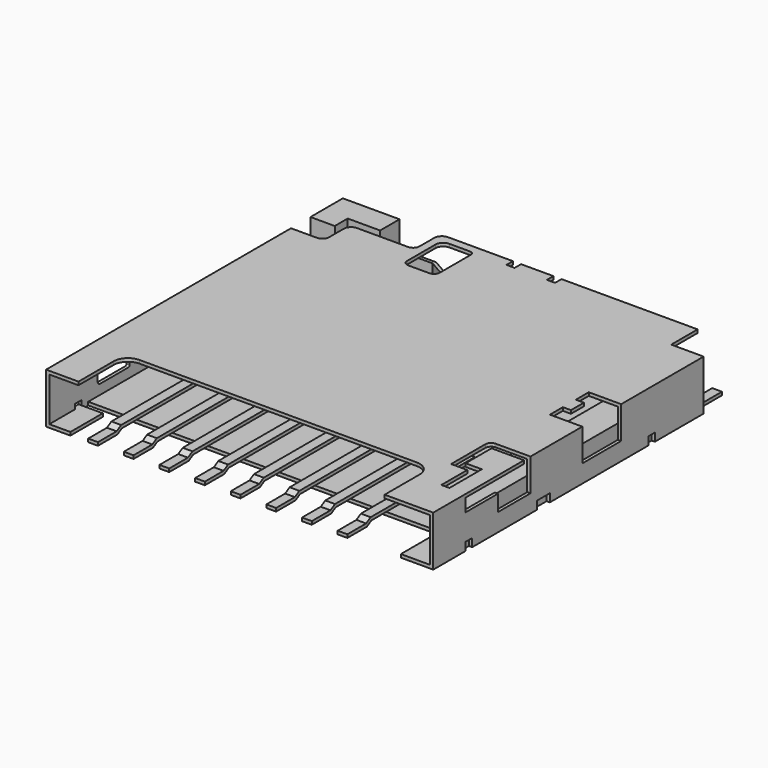
from build123d import *

# Parameters (mm, degrees)
PAD001_DEPTH  = 0.1
PAD002_DEPTH  = 0.1
PAD012_DEPTH  = 0.1
PAD004_DEPTH  = 0.15
ARRAY_X_COUNT = 8
ARRAY_X_PITCH = 1.1
SKETCH005_W   = 1
SKETCH005_H   = 9.2
PAD005_DEPTH  = 1
SKETCH006_W   = 1
SKETCH006_H   = 1.25
SKETCH006_W_2 = 0.75
PAD006_DEPTH  = 0.1
PAD007_DEPTH  = 0.15
PAD008_DEPTH  = 0.15
SKETCH009_W   = 1
SKETCH009_H   = 1
PAD009_DEPTH  = 1.55
SKETCH010_W   = 1.75
SKETCH010_H   = 1.25
PAD010_DEPTH  = 0.1
PAD011_DEPTH  = 0.15
PAD_DEPTH     = 0.1


with BuildPart() as leftside:
    # Sketch001 → Pad001 (new body)
    with BuildSketch(Plane.YZ):
        Polygon((9.45, 1.55), (9.45, 0.775), (8.7, 0.775), (8.7, 0), (7.7, 0), (7.7, 0.25), (7.45, 0.25), (7.45, 0), (4.6, 0), (4.6, 0.25), (4.1, 0.25), (4.1, 0), (1.25, 0), (1.25, 0.25), (1, 0.25), (1, 0), (0, 0), (0, 1.55), align=None)
        with BuildLine():
            Line((1.956208, 0.401603), (3.055083, 0.401603))
            ThreePointArc((3.055083, 0.401603), (3.086844, 0.414759), (3.1, 0.44652))
            Line((3.1, 0.44652), (3.1, 0.664022))
            ThreePointArc((3.1, 0.664022), (3.063272, 0.752691), (2.974603, 0.789418))
            Line((2.974603, 0.789418), (1.934777, 0.789418))
            ThreePointArc((1.934777, 0.789418), (1.884997, 0.768799), (1.864378, 0.719019))
            Line((1.864378, 0.719019), (1.864378, 0.493433))
            ThreePointArc((1.864378, 0.493433), (1.891274, 0.428499), (1.956208, 0.401603))
        make_face(mode=Mode.SUBTRACT)
        with BuildLine():
            Line((5.960807, 1.042553), (7.025129, 1.042553))
            ThreePointArc((7.407447, 0.660235), (7.295469, 0.930575), (7.025129, 1.042553))
            Line((7.407447, 0.660235), (7.407447, 0.611379))
            ThreePointArc((7.086671, 0.290603), (7.313494, 0.384556), (7.407447, 0.611379))
            Line((7.086671, 0.290603), (5.80617, 0.290603))
            ThreePointArc((5.6, 0.496773), (5.660386, 0.350989), (5.80617, 0.290603))
            Line((5.6, 0.496773), (5.6, 0.681746))
            ThreePointArc((5.960807, 1.042553), (5.705678, 0.936875), (5.6, 0.681746))
        make_face(mode=Mode.SUBTRACT)
    extrude(amount=PAD001_DEPTH)


with BuildPart() as rightside:
    # Sketch002 → Pad002 (new body)
    with BuildSketch(Plane.YZ.offset(11.95)):
        Polygon((0, 0), (0, 1.55), (1.25, 1.55), (1.25, 1.05), (2.5, 1.05), (2.5, 0.55), (3.75, 0.55), (3.75, 1.55), (5.75, 1.55), (5.75, 0.55), (7.25, 0.55), (7.25, 1.55), (9.45, 1.55), (9.45, 0), (8.55, 0), (8.55, 0.25), (8.3, 0.25), (8.3, 0), (4.5, 0), (4.5, 0.25), (4, 0.25), (4, 0), (1.5, 0), (1.5, 0.25), (1.25, 0.25), (1.25, 0), align=None)
    extrude(amount=-PAD002_DEPTH)


with BuildPart() as bottom:
    # Sketch012 → Pad012 (new body)
    with BuildSketch(Plane.XY):
        Polygon((0.1, 1.5), (11.85, 1.5), (11.85, 10.45), (1.65, 10.45), (1.65, 8.95), (0.1, 8.95), align=None)
    extrude(amount=PAD012_DEPTH)


with BuildPart() as array:
    # Sketch004 → Pad004 (new body, symmetric)
    with BuildSketch(Plane.YZ.offset(1.45)):
        Polygon((0, 0), (0.75, 0), (0.923205, 0.1), (4.923205, 0.1), (4.923205, 0.2), (0.89641, 0.2), (0.723205, 0.1), (0, 0.1), align=None)
    extrude(amount=PAD004_DEPTH, both=True)

    # Array X: Array ×8


with BuildPart() as array_1:
    add(array.part)
    with Locations(*[(i * ARRAY_X_PITCH, 0, 0) for i in range(1, ARRAY_X_COUNT)]):
        add(array.part)


with BuildPart() as right:
    # Sketch005 → Pad005 (new body)
    with BuildSketch(Plane(origin=(-0.1, 0, 0), x_dir=(1, 0, 0), z_dir=(0, 0, 1))):
        with Locations((11.45, 5.85)):
            Rectangle(SKETCH005_W, SKETCH005_H)
    extrude(amount=PAD005_DEPTH)


with BuildPart() as bottommetal:
    # Sketch006 → Pad006 (new body)
    with BuildSketch(Plane.XY):
        with Locations((11.45, 0.625)):
            Rectangle(SKETCH006_W, SKETCH006_H)
        with Locations((0.375, 0.625)):
            Rectangle(SKETCH006_W_2, SKETCH006_H)
    extrude(amount=PAD006_DEPTH)


with BuildPart() as obj1:
    # Sketch007 → Pad007 (new body, symmetric)
    with BuildSketch(Plane.YZ.offset(11.55)):
        Polygon((11.45, 0), (11.45, 0.1), (10.726795, 0.1), (10.55359, 0.2), (6.526795, 0.2), (6.526795, 0.1), (10.526795, 0.1), (10.7, 0), align=None)
    extrude(amount=PAD007_DEPTH, both=True)


with BuildPart() as obj2:
    # Sketch008 → Pad008 (new body, symmetric)
    with BuildSketch(Plane.XZ.offset(-9.65)):
        Polygon((0, 0), (0.75, 0), (0.923205, 0.1), (2.923205, 0.1), (2.923205, 0.2), (0.89641, 0.2), (0.723205, 0.1), (0, 0.1), align=None)
    extrude(amount=PAD008_DEPTH, both=True)


with BuildPart() as corners:
    # Sketch009 → Pad009 (new body)
    with BuildSketch(Plane.XY):
        Polygon((0, 10.2), (0.75, 10.2), (0.75, 10.7), (1.75, 10.7), (1.75, 11.45), (0, 11.45), align=None)
        with Locations((11.45, 9.931429)):
            Rectangle(SKETCH009_W, SKETCH009_H)
    extrude(amount=PAD009_DEPTH)


with BuildPart() as cornerbottom:
    # Sketch010 → Pad010 (new body)
    with BuildSketch(Plane.XY):
        with Locations((0.875, 10.825)):
            Rectangle(SKETCH010_W, SKETCH010_H)
    extrude(amount=PAD010_DEPTH)


with BuildPart() as detector:
    # Sketch011 → Pad011 (new body, symmetric)
    with BuildSketch(Plane.XY.offset(0.7)):
        Polygon((0.5, 11.2), (2.973205, 11.2), (3.49282, 10.9), (7.49282, 10.9), (7.49282, 11), (3.519615, 11), (3, 11.3), (0.5, 11.3), align=None)
    extrude(amount=PAD011_DEPTH, both=True)


with BuildPart() as obj3:
    # Sketch → Pad (new body)
    with BuildSketch(Plane.XY.offset(1.55)):
        with BuildLine():
            Line((0, 0), (0, 9.45))
            Line((0, 9.45), (0.803562, 9.45))
            ThreePointArc((0.803562, 9.45), (0.949206, 9.510328), (1.009535, 9.655973))
            Line((1.009535, 9.655973), (1.009535, 10.225538))
            ThreePointArc((1.233997, 10.45), (1.075278, 10.384256), (1.009535, 10.225538))
            Line((1.233997, 10.45), (2.813256, 10.45))
            ThreePointArc((2.813256, 10.45), (2.952046, 10.507489), (3.009535, 10.646279))
            Line((3.009535, 10.646279), (3.009535, 11.211775))
            ThreePointArc((3.24776, 11.45), (3.079309, 11.380226), (3.009535, 11.211775))
            Line((3.24776, 11.45), (5.25, 11.45))
            Line((5.25, 11.45), (5.25, 11.2))
            Line((5.25, 11.2), (5.5, 11.2))
            Line((5.5, 11.2), (5.5, 11.45))
            Line((5.5, 11.45), (6.5, 11.45))
            Line((6.5, 11.45), (6.5, 11.2))
            Line((6.5, 11.2), (6.75, 11.2))
            Line((6.75, 11.2), (6.75, 11.45))
            Line((6.75, 11.45), (10.95, 11.45))
            Line((10.95, 11.45), (10.95, 9.45))
            Line((10.95, 9.45), (11.95, 9.45))
            Line((11.95, 9.45), (11.95, 7.25))
            Line((11.95, 7.25), (10.95, 7.25))
            Line((10.95, 7.25), (10.95, 6.75))
            Line((10.95, 6.75), (11.2, 6.75))
            Line((11.2, 6.75), (11.2, 6.25))
            Line((11.2, 6.25), (10.95, 6.25))
            Line((10.95, 6.25), (10.95, 5.75))
            Line((10.95, 5.75), (11.95, 5.75))
            Line((11.95, 5.75), (11.95, 3.75))
            Line((11.95, 3.75), (10.880027, 3.75))
            ThreePointArc((10.880027, 3.75), (10.752729, 3.697271), (10.7, 3.569973))
            Line((10.7, 3.569973), (10.7, 2.25))
            Line((10.7, 2.25), (11.2, 2.25))
            Line((11.2, 2.25), (11.2, 1.25))
            Line((11.2, 1.25), (11.45, 1.25))
            Line((11.45, 1.25), (11.45, 2.5))
            Line((11.45, 2.5), (10.95, 2.5))
            Line((10.95, 2.5), (10.95, 3.5))
            Line((10.95, 3.5), (11.95, 3.5))
            Line((11.95, 3.5), (11.95, 0))
            Line((11.95, 0), (10.45, 0))
            Line((10.45, 0), (10.45, 1.354244))
            ThreePointArc((10.45, 1.354244), (10.319439, 1.669446), (10.004237, 1.800007))
            Line((10.004237, 1.800007), (1.441054, 1.800007))
            ThreePointArc((1.441054, 1.800007), (1.129182, 1.670826), (1, 1.358953))
            Line((1, 1.358953), (1, 0))
            Line((1, 0), (0, 0))
        make_face()
        with BuildLine():
            Line((3.484872, 11.2), (4.121489, 11.2))
            ThreePointArc((4.25, 11.071489), (4.21236, 11.16236), (4.121489, 11.2))
            Line((4.25, 11.071489), (4.25, 9.885918))
            ThreePointArc((4.064082, 9.7), (4.195546, 9.754454), (4.25, 9.885918))
            Line((4.064082, 9.7), (3.416776, 9.7))
            ThreePointArc((3.25, 9.866776), (3.298848, 9.748848), (3.416776, 9.7))
            Line((3.25, 9.866776), (3.25, 10.965128))
            ThreePointArc((3.484872, 11.2), (3.318792, 11.131208), (3.25, 10.965128))
        make_face(mode=Mode.SUBTRACT)
    extrude(amount=-PAD_DEPTH)

    # Fusion: union LeftSide, RightSide, Bottom, Array, Right, BottomMetal, obj1, obj2, Corners, CornerBottom, Detector
    add(leftside.part)
    add(rightside.part)
    add(bottom.part)
    add(array_1.part)
    add(right.part)
    add(bottommetal.part)
    add(obj1.part)
    add(obj2.part)
    add(corners.part)
    add(cornerbottom.part)
    add(detector.part)


with BuildPart() as obj3_1:
    # Fusion placement: moved
    add(obj3.part.moved(Location((-5.975, -5.775, 0))))


solid = obj3_1.part
